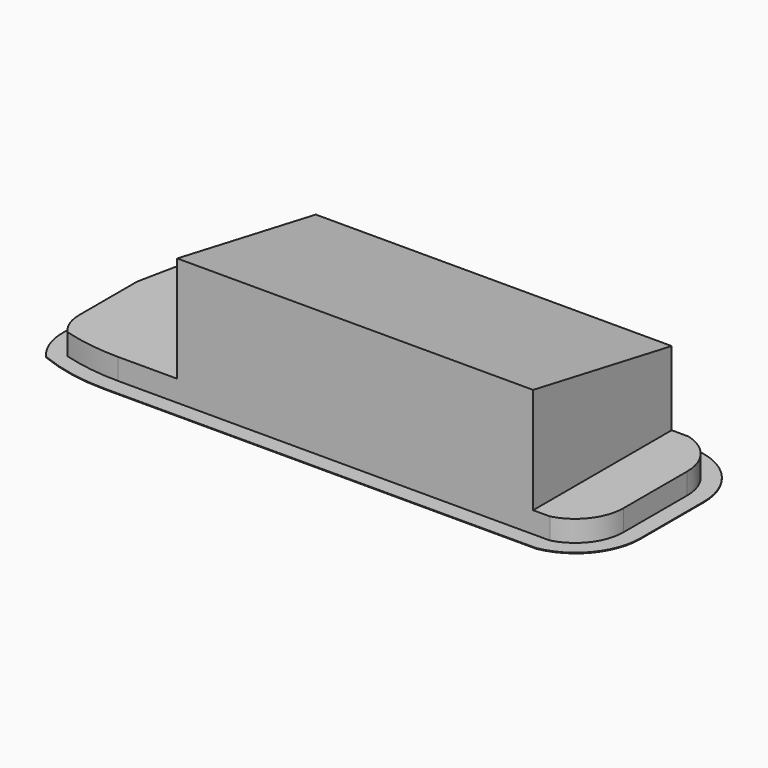
from build123d import *

# Parameters (mm, degrees)
F0_W     = 293.6875
F0_H     = 19.9898
F0_W_2   = 19.9898
F0_H_2   = 60.325
F0_W_3   = 277.8125
F0_H_3   = 47.625
F1_DEPTH = 0.8128
F3_DEPTH = 152.4
F5_DEPTH = 127
F7_DEPTH = 127
F9_DEPTH = 599.1362
F10_T    = -0.8128


with BuildPart() as f1:
    # F0 (on Top) → F1 (new body)
    with BuildSketch(Plane.XY):
        with Locations((-146.84375, 113.8301)):
            Rectangle(F0_W, F0_H)
        with BuildLine():
            Line((-293.6875, 103.8352), (-293.6875, 123.825))
            ThreePointArc((-293.6875, 123.825), (-315.444039303, 116.0777065094), (-327.4074100997, 96.3230787465))
            Line((-327.4074100997, 96.3230787465), (-307.8258060613, 92.3040132677))
            ThreePointArc((-307.8258060613, 92.3040132677), (-302.8097251361, 100.5868637443), (-293.6875, 103.8352))
        make_face()
        Polygon((-307.8258060613, 92.3040132677), (-327.4074100997, 96.3230787465), (-334.3599550499, 62.4490393733), (-314.7783510115, 58.4299738945), align=None)
        Polygon((-334.3599550499, 62.4490393733), (-341.3125, 28.575), (-341.3125, 0), (-321.3227, 0), (-321.3227, 26.5447380707), (-314.7783510115, 58.4299738945), align=None)
        with Locations((-331.3176, -30.1625)):
            Rectangle(F0_W_2, F0_H_2)
        with BuildLine():
            Line((-321.3227, -60.325), (-341.3125, -60.325))
            ThreePointArc((-341.3125, -60.325), (-336.6310537443, -85.6136120379), (-323.2071786147, -107.550553811))
            Line((-323.2071786147, -107.550553811), (-308.340574275, -94.1873139551))
            ThreePointArc((-308.340574275, -94.1873139551), (-317.9659452331, -78.4577872563), (-321.3227, -60.325))
        make_face()
        with BuildLine():
            Line((-308.340574275, -94.1873139551), (-323.2071786147, -107.550553811))
            ThreePointArc((-323.2071786147, -107.550553811), (-282.2454841292, -119.7184616454), (-239.7125, -123.825))
            Line((-239.7125, -123.825), (-239.7125, -103.8352))
            ThreePointArc((-239.7125, -103.8352), (-274.3639584247, -101.4114276523), (-308.340574275, -94.1873139551))
        make_face()
        Polygon((0, -123.825), (0, -103.8352), (-214.3125, -103.8352), (-239.7125, -103.8352), (-239.7125, -123.825), align=None)
        with BuildLine():
            ThreePointArc((277.8125, -123.825), (323.3566025304, -97.220085442), (341.3125, -47.625))
            Line((341.3125, -47.625), (321.3227, -47.625))
            ThreePointArc((321.3227, -47.625), (309.1742653298, -83.1662580253), (277.8125, -103.8352))
            Line((277.8125, -103.8352), (277.8125, -123.825))
        make_face()
        with Locations((138.90625, -113.8301)):
            Rectangle(F0_W_3, F0_H)
        Polygon((341.3125, -47.625), (341.3125, 0), (321.3227, 0), (321.3227, -22.225), (321.3227, -47.625), align=None)
        with Locations((331.3176, 23.8125)):
            Rectangle(F0_W_2, F0_H_3)
        with BuildLine():
            ThreePointArc((341.3125, 47.625), (323.3566025304, 97.220085442), (277.8125, 123.825))
            Line((277.8125, 123.825), (277.8125, 103.8352))
            ThreePointArc((277.8125, 103.8352), (309.1742653298, 83.1662580253), (321.3227, 47.625))
            Line((321.3227, 47.625), (341.3125, 47.625))
        make_face()
        with Locations((138.90625, 113.8301)):
            Rectangle(F0_W_3, F0_H)
    extrude(amount=F1_DEPTH)


with BuildPart() as f3:
    # F2 (on face) → F3 (new body)
    with BuildSketch(Plane.XY.offset(0.8128)):
        with BuildLine():
            ThreePointArc((321.3227, 47.625), (309.1742653298, 83.1662580253), (277.8125, 103.8352))
            Line((277.8125, 103.8352), (-293.6875, 103.8352))
            ThreePointArc((-293.6875, 103.8352), (-302.8097251361, 100.5868637443), (-307.8258060613, 92.3040132677))
            Line((-307.8258060613, 92.3040132677), (-321.3227, 26.5447380707))
            Line((-321.3227, 26.5447380707), (-321.3227, -60.325))
            ThreePointArc((-321.3227, -60.325), (-317.9659452331, -78.4577872563), (-308.340574275, -94.1873139551))
            ThreePointArc((-308.340574275, -94.1873139551), (-274.3639584247, -101.4114276523), (-239.7125, -103.8352))
            Line((-239.7125, -103.8352), (277.8125, -103.8352))
            ThreePointArc((277.8125, -103.8352), (309.1742653298, -83.1662580253), (321.3227, -47.625))
            Line((321.3227, -47.625), (321.3227, 47.625))
        make_face()
    extrude(amount=F3_DEPTH)

    # F4 (on face) → F5 (cut)
    with BuildSketch(Plane.XY.offset(153.2128)):
        with BuildLine():
            Line((-168.9227, -103.8352), (-168.9227, 103.8352))
            Line((-168.9227, 103.8352), (-293.6875, 103.8352))
            ThreePointArc((-293.6875, 103.8352), (-302.8097251361, 100.5868637443), (-307.8258060613, 92.3040132677))
            Line((-307.8258060613, 92.3040132677), (-321.3227, 26.5447380707))
            Line((-321.3227, 26.5447380707), (-321.3227, -60.325))
            ThreePointArc((-321.3227, -60.325), (-317.9659452331, -78.4577872563), (-308.340574275, -94.1873139551))
            ThreePointArc((-308.340574275, -94.1873139551), (-274.3639584247, -101.4114276523), (-239.7125, -103.8352))
            Line((-239.7125, -103.8352), (-168.9227, -103.8352))
        make_face()
    extrude(amount=-F5_DEPTH, mode=Mode.SUBTRACT)

    # F6 (on face) → F7 (cut)
    with BuildSketch(Plane.XY.offset(153.2128)):
        with BuildLine():
            Line((257.8227, 103.8352), (257.8227, -103.8352))
            Line((257.8227, -103.8352), (277.8125, -103.8352))
            ThreePointArc((277.8125, -103.8352), (309.1742653298, -83.1662580253), (321.3227, -47.625))
            Line((321.3227, -47.625), (321.3227, 47.625))
            ThreePointArc((321.3227, 47.625), (309.1742653298, 83.1662580253), (277.8125, 103.8352))
            Line((277.8125, 103.8352), (257.8227, 103.8352))
        make_face()
    extrude(amount=-F7_DEPTH, mode=Mode.SUBTRACT)

    # F8 (on face) → F9 (cut, through all)
    with BuildSketch(Plane.YZ.offset(257.8227)):
        Polygon((103.8352, 153.2128), (-103.8352, 153.2128), (103.8352, 115.1128), align=None)
    extrude(amount=-F9_DEPTH, mode=Mode.SUBTRACT)

    # F10
    f10_openings = [f3.faces().sort_by_distance(p)[0] for p in [
        (-0.33469, -0.032507, 0.8128),
    ]]
    offset(amount=F10_T, openings=f10_openings, kind=Kind.INTERSECTION)


solid = Compound([f1.part, f3.part])
